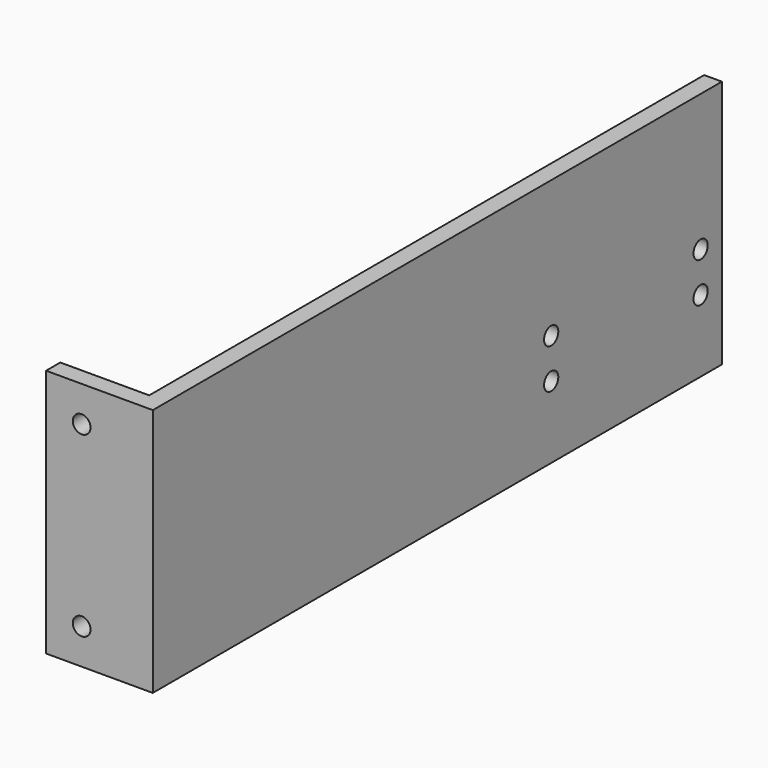
from build123d import *

# Parameters (mm, degrees)
F0_W     = 38.1
F0_H     = 88.9
F1_DEPTH = 6.35
F2_W     = 6.35
F2_H     = 88.9
F3_DEPTH = 247.65
F5_D     = 6.35
F7_D     = 6.35


with BuildPart() as f1:
    # F0 (on Front) → F1 (new body)
    with BuildSketch(Plane.XZ):
        with Locations((6.127749, 40.656248)):
            Rectangle(F0_W, F0_H)
    extrude(amount=F1_DEPTH)

    # F2 (on face) → F3 (join)
    with BuildSketch(Plane(origin=(0, 0, 0), x_dir=(-1, 0, 0), z_dir=(0, 1, 0))):
        with Locations((-22.002749, 40.656248)):
            Rectangle(F2_W, F2_H)
    extrude(amount=F3_DEPTH)

    # F5 (through all)
    with Locations(Plane.XZ.offset(6.35)):
        with Locations((-0.222251, 72.406248), (-0.222251, 8.906248)):
            Hole(F5_D / 2)

    # F7 (through all)
    with Locations(Plane.YZ.offset(25.177749)):
        with Locations((171.45, 36.236648), (171.45, 21.936448), (238.1504, 21.936448), (238.1504, 36.236648)):
            Hole(F7_D / 2)


solid = f1.part
